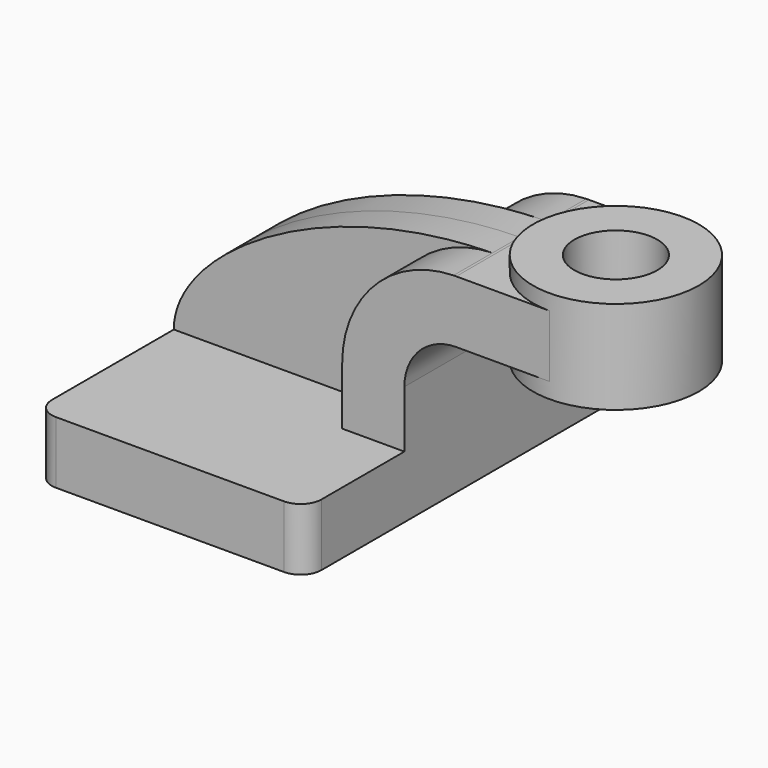
from build123d import *

# Parameters (mm, degrees)
F1_DEPTH = 63.5
F0_W     = 25.4
F0_H     = 19.05
F2_DEPTH = 25.4
F3_DEPTH = 10.4775
F5_R     = 6.35
F7_D     = 25.4


with BuildPart() as f1:
    # F0 (on Front) → F1 (new body, symmetric)
    with BuildSketch(Plane.XZ):
        Polygon((-41.275, 9.525), (-41.275, -9.525), (41.275, -9.525), (41.275, 9.525), (22.225, 9.525), align=None)
    extrude(amount=F1_DEPTH, both=True)

    # F0 (on Front) → F2 (join, symmetric)
    with BuildSketch(Plane.XZ):
        with Locations((73.025, 52.4002)):
            Rectangle(F0_W, F0_H)
        with BuildLine():
            Line((22.225, 9.525), (41.275, 9.525))
            Line((41.275, 9.525), (41.275, 27.0002))
            ThreePointArc((41.275, 27.0002), (45.9246798487, 38.2255201513), (57.15, 42.8752))
            Line((57.15, 42.8752), (60.325, 42.8752))
            Line((60.325, 42.8752), (60.325, 61.9252))
            Line((60.325, 61.9252), (57.15, 61.9252))
            add(Edge.make_bspline(
                [(56.3268874615, 61.9154990929), (56.6009974392, 61.9194787375), (56.8753697614, 61.9227139639), (57.15, 61.9252)],
                knots=[110.9401343826, 110.9401343826, 110.9401343826, 110.9401343826, 111.5045361635, 111.5045361635, 111.5045361635, 111.5045361635], degree=3))
            ThreePointArc((56.3268874615, 61.9154990929), (32.1649761817, 51.4031549399), (22.225, 27.0002))
            Line((22.225, 27.0002), (22.225, 9.525))
        make_face()
    extrude(amount=F2_DEPTH, both=True)

    # F0 (on Front) → F3 (join, symmetric)
    with BuildSketch(Plane.XZ):
        with BuildLine():
            add(Edge.make_bspline(
                [(-41.275, 9.525), (-41.296369644, 31.5891025492), (2.4471890111, 61.1332508534), (56.3268874615, 61.9154990929)],
                knots=[0, 0, 0, 0, 110.9401343826, 110.9401343826, 110.9401343826, 110.9401343826], degree=3))
            Line((-41.275, 9.525), (22.225, 9.525))
            Line((22.225, 9.525), (22.225, 27.0002))
            ThreePointArc((22.225, 27.0002), (32.1649761817, 51.4031549399), (56.3268874615, 61.9154990929))
        make_face()
    extrude(amount=F3_DEPTH, both=True)

    # F0 (on Front) → F4 (revolve)
    with BuildSketch(Plane.XZ):
        Polygon((85.725, 66.675), (85.725, 61.9252), (85.725, 42.8752), (85.725, 38.1), (111.125, 38.1), (111.125, 66.675), align=None)
    revolve(axis=Axis((85.725, 0, 52.3875), (0, 0, 1)))

    # F5
    f5_edges = [f1.edges().sort_by_distance(p)[0] for p in [
        (-41.275, -63.5, 0),
        (41.275, -63.5, 0),
        (41.275, 63.5, 0),
        (-41.275, 63.5, 0),
    ]]
    fillet(f5_edges, radius=F5_R)

    # F7 (through all)
    with Locations(Plane.XY.offset(66.675)):
        with Locations((85.725, 0)):
            Hole(F7_D / 2)


solid = f1.part
